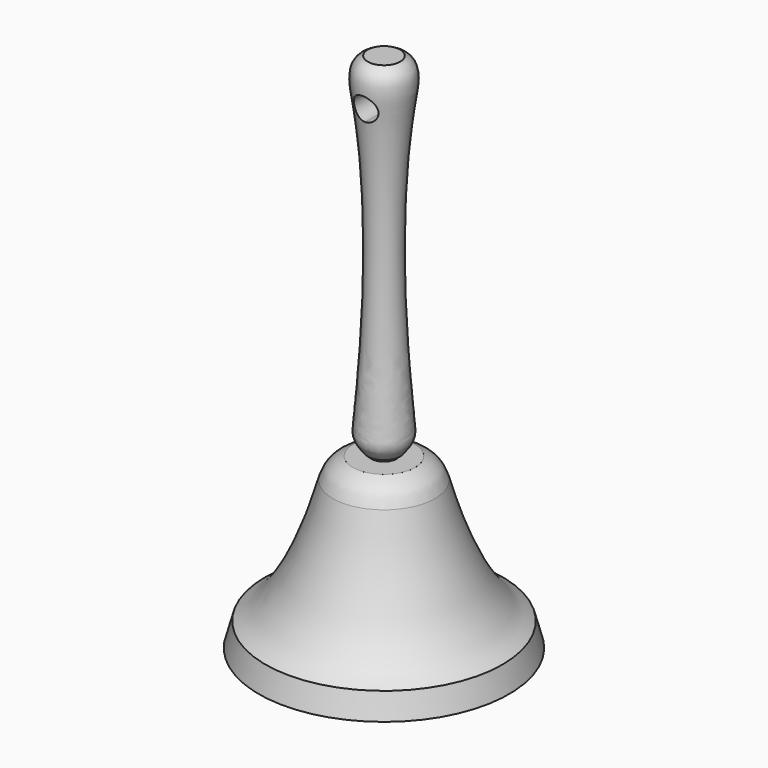
from build123d import *

# Parameters (mm, degrees)
F4_DEPTH      = 20.4598007182
F4_DEPTH_BACK = 20.4598007182
F5_SCALE      = 1.5


with BuildPart() as f2:
    # F0 (on Front) → F2 (revolve)
    with BuildSketch(Plane.XZ):
        with BuildLine():
            Line((0, 52.8200916865), (0, 56.8200916865))
            Line((0, 56.8200916865), (-2.6567221031, 56.8200916865))
            add(Edge.make_bspline(
                [(-2.6567221031, 56.8200916865), (-4.9406119586, 55.7945389978), (-3.7554478853, 48.9748373725), (-2.6567221031, 39.776578042), (-2.6567221031, 28.4100458433)],
                knots=[0, 0, 0, 0, 0.3440670063, 1, 1, 1, 1], degree=3))
            add(Edge.make_bspline(
                [(-2.6567221031, 28.4100458433), (-2.6567221031, 17.0435136445), (-4.1904992058, 2.8458600862), (-4.0253015772, 1.7695360087), (-2.6567221031, 0)],
                knots=[0, 0, 0, 0, 0.7250692185, 1, 1, 1, 1], degree=3))
            Line((-2.6567221031, 0), (0, 0))
            Line((0, 0), (0, 48.8200916865))
            ThreePointArc((0, 48.8200916865), (-2, 50.8200916865), (0, 52.8200916865))
        make_face()
    revolve(axis=Axis((0, 0, 28.4100458433), (0, 0, 1)))

    # F0 (on Front) → F4 (cut, two sides)
    with BuildSketch(Plane.XZ) as f4_sk:
        with BuildLine():
            Line((0, 50.8200916865), (0, 52.8200916865))
            ThreePointArc((0, 52.8200916865), (-2, 50.8200916865), (0, 48.8200916865))
            Line((0, 48.8200916865), (0, 50.8200916865))
        make_face()
        with BuildLine():
            ThreePointArc((2, 50.8200916865), (1.4142135624, 52.2343052489), (0, 52.8200916865))
            Line((0, 52.8200916865), (0, 50.8200916865))
            Line((0, 50.8200916865), (0, 48.8200916865))
            ThreePointArc((0, 48.8200916865), (1.4142135624, 49.4058781241), (2, 50.8200916865))
        make_face()
    extrude(amount=F4_DEPTH, mode=Mode.SUBTRACT)
    extrude(f4_sk.sketch, amount=-F4_DEPTH_BACK, mode=Mode.SUBTRACT)


with BuildPart() as f3:
    # F0 (on Front) → F3 (revolve)
    with BuildSketch(Plane.XZ):
        with BuildLine():
            Line((0, -28.4100458433), (0, -0.7921268718))
            Line((0, -0.7921268718), (-5.0829817209, -0.7921268718))
            ThreePointArc((-5.0829817209, -0.7921268718), (-7.143101465, -2.087757465), (-8.347522339, -4.2024967757))
            add(Edge.make_bspline(
                [(-19.3798802793, -24.5066192001), (-14.8855797897, -22.20953008), (-11.2581184189, -14.6427437723), (-8.347522339, -4.2024967757)],
                knots=[0, 0, 0, 0, 23.7906508382, 23.7906508382, 23.7906508382, 23.7906508382], degree=3))
            Line((-19.3798802793, -24.5066192001), (-20.4588007182, -28.4100458433))
            Line((-20.4588007182, -28.4100458433), (0, -28.4100458433))
        make_face()
    revolve(axis=Axis((0, 0, -14.2050229216), (0, 0, -1)))


with BuildPart() as f3_1:
    # F5: moved
    add(f3.part.scale(F5_SCALE))


with BuildPart() as f2_1:
    # F5: moved
    add(f2.part.scale(F5_SCALE))

    # F7: cut F3
    add(f3_1.part, mode=Mode.SUBTRACT)


with BuildPart() as f6:
    # F1 (on Front) → F6 (revolve)
    with BuildSketch(Plane.XZ):
        with BuildLine():
            Line((0, -0.7921268718), (0, 2.3164544235))
            ThreePointArc((0, 2.3164544235), (-2.1980989137, 1.405972042), (-3.1085812952, -0.7921268718))
            Line((-3.1085812952, -0.7921268718), (0, -0.7921268718))
        make_face()
    revolve(axis=Axis((0, 0, -14.2050229216), (0, 0, -1)))


with BuildPart() as f2_2:
    # F8: moved
    add(f2_1.part)


solid = Compound([f3_1.part, f6.part, f2_2.part])
